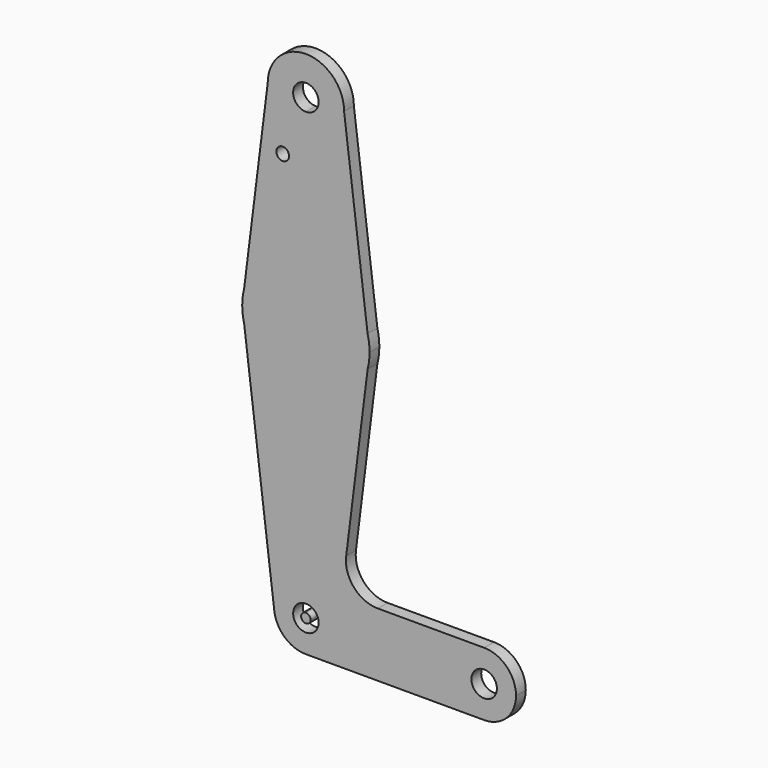
from build123d import *

# Parameters (mm, degrees)
F0_R     = 1.5875
F1_DEPTH = 3.048


with BuildPart() as f1:
    # F0 (on Front) → F1 (new body)
    with BuildSketch(Plane.XZ):
        with BuildLine():
            Line((-23.0466702104, 61.6780356348), (-16.6966702104, 61.6780356348))
            ThreePointArc((-16.6966702104, 61.6780356348), (-26.2216702104, 71.2030356348), (-35.7466702104, 61.6780356348))
            ThreePointArc((-35.7466702104, 61.6780356348), (-32.9568623012, 54.942843544), (-26.2216702104, 52.1530356348))
            Line((-26.2216702104, 52.1530356348), (-26.2216702104, 58.5030356348))
            ThreePointArc((-26.2216702104, 58.5030356348), (-28.4667342406, 63.923099665), (-23.0466702104, 61.6780356348))
        make_face()
        with BuildLine():
            Line((-10.8351317488, 14.7857279424), (-16.6966702104, 61.6780356348))
            ThreePointArc((-16.6966702104, 61.6780356348), (-19.4864781196, 54.942843544), (-26.2216702104, 52.1530356348))
            Line((-26.2216702104, 52.1530356348), (-26.2216702104, 26.7530356348))
            ThreePointArc((-26.2216702104, 26.7530356348), (-16.4753629708, 23.4090020856), (-10.8351317488, 14.7857279424))
        make_face()
        with BuildLine():
            ThreePointArc((-26.2216702104, 52.1530356348), (-19.4864781196, 54.942843544), (-16.6966702104, 61.6780356348))
            Line((-16.6966702104, 61.6780356348), (-23.0466702104, 61.6780356348))
            ThreePointArc((-23.0466702104, 61.6780356348), (-23.9766061801, 59.4329716045), (-26.2216702104, 58.5030356348))
            Line((-26.2216702104, 58.5030356348), (-26.2216702104, 52.1530356348))
        make_face()
        with BuildLine():
            ThreePointArc((-26.2216702104, 52.1530356348), (-32.9568623012, 54.942843544), (-35.7466702104, 61.6780356348))
            Line((-35.7466702104, 61.6780356348), (-41.6082086719, 14.7857279424))
            ThreePointArc((-41.6082086719, 14.7857279424), (-35.9679774499, 23.4090020856), (-26.2216702104, 26.7530356348))
            Line((-26.2216702104, 26.7530356348), (-26.2216702104, 52.1530356348))
        make_face()
        with Locations((-31.9993589073, 47.4032356348)):
            Circle(F0_R, mode=Mode.SUBTRACT)
        with BuildLine():
            Line((-10.3466702104, 10.8780356348), (-10.8351317488, 14.7857279424))
            ThreePointArc((-10.8351317488, 14.7857279424), (-16.4753629708, 23.4090020856), (-26.2216702104, 26.7530356348))
            Line((-26.2216702104, 26.7530356348), (-26.2216702104, 10.8780356348))
            Line((-26.2216702104, 10.8780356348), (-26.2216702104, -4.9969643652))
            ThreePointArc((-26.2216702104, -4.9969643652), (-16.4753629708, -1.6529308161), (-10.8351317488, 6.9703433271))
            Line((-10.8351317488, 6.9703433271), (-10.3466702104, 10.8780356348))
        make_face()
        with BuildLine():
            ThreePointArc((-10.3466702104, 10.8780356348), (-10.4692589175, 12.8470870464), (-10.8351317488, 14.7857279424))
            Line((-10.8351317488, 14.7857279424), (-10.3466702104, 10.8780356348))
        make_face()
        with BuildLine():
            Line((-42.0966702104, 10.8780356348), (-41.6082086719, 14.7857279424))
            ThreePointArc((-41.6082086719, 14.7857279424), (-41.9740815032, 12.8470870464), (-42.0966702104, 10.8780356348))
        make_face()
        with BuildLine():
            ThreePointArc((-26.2216702104, 26.7530356348), (-35.9679774499, 23.4090020856), (-41.6082086719, 14.7857279424))
            Line((-41.6082086719, 14.7857279424), (-42.0966702104, 10.8780356348))
            Line((-42.0966702104, 10.8780356348), (-41.6155539509, 6.9993801483))
            ThreePointArc((-41.6155539509, 6.9993801483), (-35.9797942399, -1.6437310307), (-26.2216702104, -4.9969643652))
            Line((-26.2216702104, -4.9969643652), (-26.2216702104, 10.8780356348))
            Line((-26.2216702104, 10.8780356348), (-26.2216702104, 26.7530356348))
        make_face()
        with BuildLine():
            ThreePointArc((-10.8351317488, 6.9703433271), (-10.4692589175, 8.9089842232), (-10.3466702104, 10.8780356348))
            Line((-10.3466702104, 10.8780356348), (-10.8351317488, 6.9703433271))
        make_face()
        with BuildLine():
            Line((-41.6155539509, 6.9993801483), (-42.0966702104, 10.8780356348))
            ThreePointArc((-42.0966702104, 10.8780356348), (-41.9759320049, 8.9238451861), (-41.6155539509, 6.9993801483))
        make_face()
        with BuildLine():
            Line((-16.174945092, -35.7481634183), (-10.8351317488, 6.9703433271))
            ThreePointArc((-10.8351317488, 6.9703433271), (-16.4753629708, -1.6529308161), (-26.2216702104, -4.9969643652))
            Line((-26.2216702104, -4.9969643652), (-26.2216702104, -44.6844643652))
            ThreePointArc((-26.2216702104, -44.6844643652), (-20.6090101347, -47.0093042896), (-18.2841702104, -52.6219643652))
            Line((-18.2841702104, -52.6219643652), (10.2908297896, -52.6219643652))
            ThreePointArc((10.2908297896, -52.6219643652), (12.615669714, -47.0093042896), (18.2283297896, -44.6844643652))
            Line((18.2283297896, -44.6844643652), (-8.2861375165, -44.6844643652))
            ThreePointArc((-8.2861375165, -44.6844643652), (-14.2462289499, -41.9957271035), (-16.174945092, -35.7481634183))
        make_face()
        with BuildLine():
            ThreePointArc((-26.2216702104, -4.9969643652), (-35.9797942399, -1.6437310307), (-41.6155539509, 6.9993801483))
            Line((-41.6155539509, 6.9993801483), (-34.0988011076, -53.5990595896))
            ThreePointArc((-34.0988011076, -53.5990595896), (-32.1697623244, -47.3661003589), (-26.2216702104, -44.6844643652))
            Line((-26.2216702104, -44.6844643652), (-26.2216702104, -4.9969643652))
        make_face()
        with BuildLine():
            ThreePointArc((-26.2216702104, -44.6844643652), (-32.1697623244, -47.3661003589), (-34.0988011076, -53.5990595896))
            ThreePointArc((-34.0988011076, -53.5990595896), (-31.4775217877, -58.5700674618), (-26.2216370382, -60.5594643652))
            ThreePointArc((-26.2216370382, -60.5594643652), (-20.6089984066, -58.2346127128), (-18.2841702104, -52.6219643652))
            Line((-18.2841702104, -52.6219643652), (-23.0466702104, -52.6219643652))
            ThreePointArc((-23.0466702104, -52.6219643652), (-28.4667342406, -54.8670283955), (-26.2216702104, -49.4469643652))
            Line((-26.2216702104, -49.4469643652), (-26.2216702104, -44.6844643652))
        make_face()
        with BuildLine():
            ThreePointArc((-18.2841702104, -52.6219643652), (-20.6089984066, -58.2346127128), (-26.2216370382, -60.5594643652))
            Line((-26.2216370382, -60.5594643652), (18.1740585064, -60.5592788278))
            ThreePointArc((18.1740585064, -60.5592788278), (12.5965146044, -58.2154037338), (10.2908297896, -52.6219643652))
            Line((10.2908297896, -52.6219643652), (-18.2841702104, -52.6219643652))
        make_face()
        with BuildLine():
            ThreePointArc((26.1658297896, -52.6219643652), (23.8409898653, -47.0093042896), (18.2283297896, -44.6844643652))
            ThreePointArc((18.2283297896, -44.6844643652), (12.615669714, -47.0093042896), (10.2908297896, -52.6219643652))
            ThreePointArc((10.2908297896, -52.6219643652), (12.5965146044, -58.2154037338), (18.1740585064, -60.5592788278))
            ThreePointArc((18.1740585064, -60.5592788278), (23.8217691582, -58.2537795504), (26.1658297896, -52.6219643652))
        make_face()
        with BuildLine():
            ThreePointArc((21.4033297896, -52.6219643652), (18.2283297896, -55.7969643652), (15.0533297896, -52.6219643652))
            ThreePointArc((15.0533297896, -52.6219643652), (18.2283297896, -49.4469643652), (21.4033297896, -52.6219643652))
        make_face(mode=Mode.SUBTRACT)
        with BuildLine():
            ThreePointArc((-18.2841702104, -52.6219643652), (-20.6090101347, -47.0093042896), (-26.2216702104, -44.6844643652))
            Line((-26.2216702104, -44.6844643652), (-26.2216702104, -49.4469643652))
            ThreePointArc((-26.2216702104, -49.4469643652), (-23.9766061801, -50.376900335), (-23.0466702104, -52.6219643652))
            Line((-23.0466702104, -52.6219643652), (-18.2841702104, -52.6219643652))
        make_face()
    extrude(amount=F1_DEPTH)


with BuildPart() as f1b:
    # F0 (on Front) → F1, piece 2 (new body)
    with BuildSketch(Plane.XZ):
        with BuildLine():
            Line((-26.2216702104, -52.6219643652), (-26.2216702104, -51.440477794))
            ThreePointArc((-26.2216702104, -51.440477794), (-27.0571073767, -53.4574015316), (-25.0401836391, -52.6219643652))
            Line((-25.0401836391, -52.6219643652), (-26.2216702104, -52.6219643652))
        make_face()
        with BuildLine():
            ThreePointArc((-25.0401836391, -52.6219643652), (-25.386233044, -51.7865271989), (-26.2216702104, -51.440477794))
            Line((-26.2216702104, -51.440477794), (-26.2216702104, -52.6219643652))
            Line((-26.2216702104, -52.6219643652), (-25.0401836391, -52.6219643652))
        make_face()
    extrude(amount=F1_DEPTH)


solid = Compound([f1.part, f1b.part])
